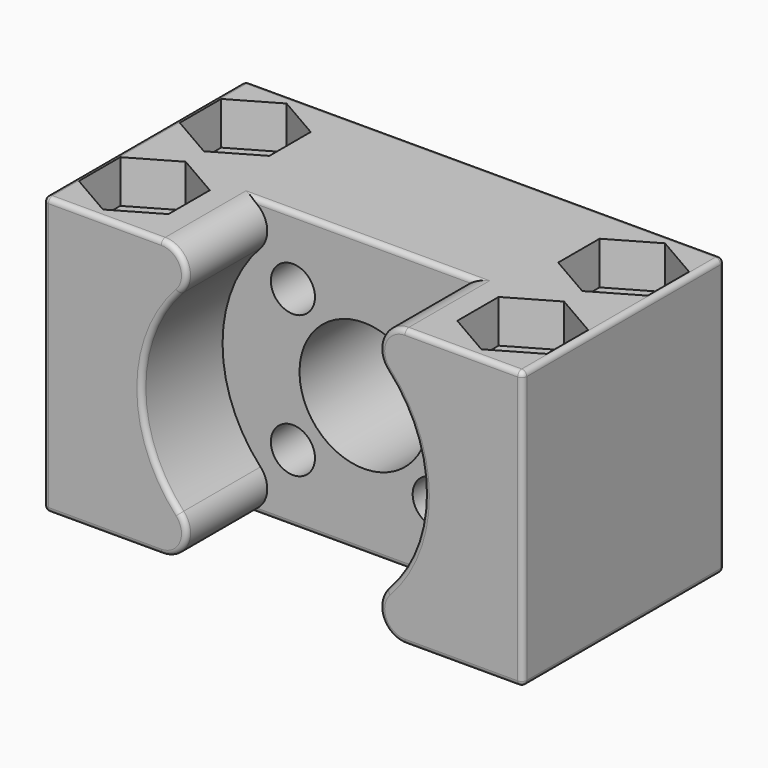
from build123d import *

# Parameters (mm, degrees)
SKETCH_W        = 38
SKETCH_H        = 20
SKETCH_R        = 2.1
PAD_DEPTH       = 22
SKETCH001_R     = 11.2
POCKET_DEPTH    = 8
SKETCH002_R     = 5.1
SKETCH002_R_2   = 1.75
POCKET001_DEPTH = 20
POCKET002_DEPTH = 3.4
FILLET_R        = 2
FILLET001_R     = 0.4


with BuildPart() as part:
    # Sketch → Pad (new body)
    with BuildSketch(Plane.XY):
        with Locations((19, 10)):
            Rectangle(SKETCH_W, SKETCH_H)
        with Locations((4, 15)):
            Circle(SKETCH_R, mode=Mode.SUBTRACT)
        with Locations((4, 5)):
            Circle(SKETCH_R, mode=Mode.SUBTRACT)
        with Locations((34, 15)):
            Circle(SKETCH_R, mode=Mode.SUBTRACT)
        with Locations((34, 5)):
            Circle(SKETCH_R, mode=Mode.SUBTRACT)
    extrude(amount=PAD_DEPTH)

    # Sketch001 (on Face3 of Pad) → Pocket (cut)
    with BuildSketch(Plane.XZ):
        with Locations((19, 11)):
            Circle(SKETCH001_R)
    extrude(amount=-POCKET_DEPTH, mode=Mode.SUBTRACT)

    # Sketch002 (on Face1 of Pocket) → Pocket001 (cut)
    with BuildSketch(Plane(origin=(0, 20, 0), x_dir=(-1, 0, 0), z_dir=(0, 1, 0))):
        with Locations((-19, 11)):
            Circle(SKETCH002_R)
        with Locations((-13.378501, 16.621499)):
            Circle(SKETCH002_R_2)
        with Locations((-24.621499, 5.378501)):
            Circle(SKETCH002_R_2)
        with Locations((-24.621499, 16.621499)):
            Circle(SKETCH002_R_2)
        with Locations((-13.378501, 5.378501)):
            Circle(SKETCH002_R_2)
    extrude(amount=-POCKET001_DEPTH, mode=Mode.SUBTRACT)

    # Sketch003 (on Face4 of Pocket001) → Pocket002 (cut)
    with BuildSketch(Plane.XY.offset(22)):
        Polygon((4, 10.900813), (7.55, 12.950407), (7.55, 17.049593), (4, 19.099187), (0.45, 17.049593), (0.45, 12.950407), align=None)
        Polygon((34, 10.900813), (37.55, 12.950407), (37.55, 17.049593), (34, 19.099187), (30.45, 17.049593), (30.45, 12.950407), align=None)
        Polygon((34, 9.099187), (30.45, 7.049593), (30.45, 2.950407), (34, 0.900813), (37.55, 2.950407), (37.55, 7.049593), align=None)
        Polygon((4, 9.099187), (0.45, 7.049593), (0.45, 2.950407), (4, 0.900813), (7.55, 2.950407), (7.55, 7.049593), align=None)
    extrude(amount=-POCKET002_DEPTH, mode=Mode.SUBTRACT)

    # Fillet
    fillet_edges = [part.edges().sort_by_distance(p)[0] for p in [
        (16.892869, 4, 22),
        (21.107131, 4, 22),
        (21.107131, 4, 0),
        (16.892869, 4, 0),
    ]]
    fillet(fillet_edges, radius=FILLET_R)

    # Fillet001
    fillet001_edges = [part.edges().sort_by_distance(p)[0] for p in [
        (19, 8, 22),
        (13.118392, 8, 22),
        (24.881608, 8, 22),
        (0, 0, 11),
        (33.328043, 0, 0),
        (4.671957, 0, 0),
        (4.671957, 0, 22),
        (33.328043, 0, 22),
        (26.822064, 0, 20.797724),
        (29.421182, 0, 15.10353),
        (29.421182, 0, 6.89647),
        (26.822064, 0, 1.202276),
        (11.177936, 0, 1.202276),
        (7.8, 0, 11),
        (11.177936, 0, 20.797724),
        (38, 0, 11),
        (38, 10, 22),
        (38, 20, 11),
        (38, 10, 0),
        (0, 10, 22),
        (19, 20, 22),
        (0, 20, 11),
        (19, 20, 0),
        (0, 10, 0),
        (13.118392, 8, 0),
        (19, 8, 0),
        (24.881608, 8, 0),
    ]]
    fillet(fillet001_edges, radius=FILLET001_R)


solid = part.part
